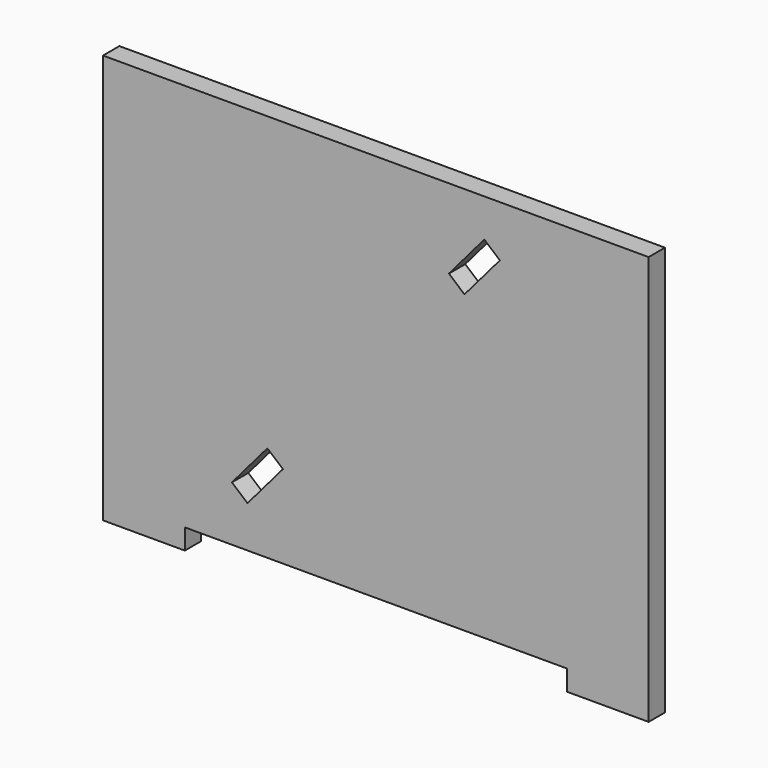
from build123d import *

# Parameters (mm, degrees)
F0_W     = 76.2
F0_H     = 19.05
F1_DEPTH = 19.05


with BuildPart() as f1:
    # F0 (on Front) → F1 (new body)
    with BuildSketch(Plane.XZ):
        Polygon((280.301026, 261.140416), (-227.698974, 261.140416), (-227.698974, -100.809584), (-151.498974, -100.809584), (204.101026, -100.809584), (280.301026, -100.809584), align=None)
        Polygon((-74.679661, -11.017117), (-60.185768, -23.379542), (-93.152235, -62.029924), (-107.646129, -49.667499), align=None, mode=Mode.SUBTRACT)
        Polygon((94.351287, 187.157308), (127.317754, 225.80769), (141.811647, 213.445264), (108.84518, 174.794882), align=None, mode=Mode.SUBTRACT)
        with Locations((-189.598974, -110.334584)):
            Rectangle(F0_W, F0_H)
        with Locations((242.201026, -110.334584)):
            Rectangle(F0_W, F0_H)
    extrude(amount=F1_DEPTH)


solid = f1.part
